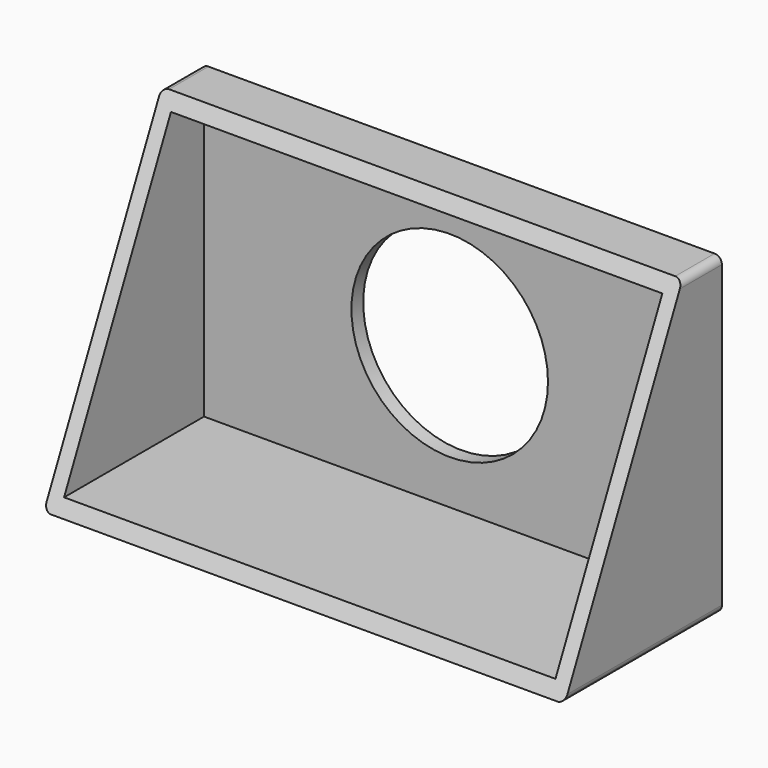
from build123d import *

# Parameters (mm, degrees)
F0_W     = 106
F0_H     = 64
F0_R     = 20
F1_DEPTH = 40
F3_DEPTH = 120
F4_R     = 1.5
F5_T     = -3


with BuildPart() as f1:
    # F0 (on Front) → F1 (new body)
    with BuildSketch(Plane.XZ):
        with Locations((0.0056690624, 0.0035208468)):
            Rectangle(F0_W, F0_H)
        with Locations((0.0056690624, 0.0035208468)):
            Circle(F0_R, mode=Mode.SUBTRACT)
    extrude(amount=F1_DEPTH)

    # F2 (on face) → F3 (cut)
    with BuildSketch(Plane.YZ.offset(53.0056690624)):
        Polygon((-40, 32.0035208468), (-40, -31.9964791532), (-10, 32.0035208468), align=None)
    extrude(amount=-F3_DEPTH, mode=Mode.SUBTRACT)

    # F4
    f4_edges = [f1.edges().sort_by_distance(p)[0] for p in [
        (53.005669, -5, 32.003521),
        (-52.994331, -5, 32.003521),
        (-52.994331, -20, -31.996479),
        (53.005669, -20, -31.996479),
    ]]
    fillet(f4_edges, radius=F4_R)

    # F5
    f5_openings = [f1.faces().sort_by_distance(p)[0] for p in [
        (0.005669, -39.459251, -30.84288),
        (-19.994331, -17.1875, 0.003521),
    ]]
    offset(amount=F5_T, openings=f5_openings)


solid = f1.part
